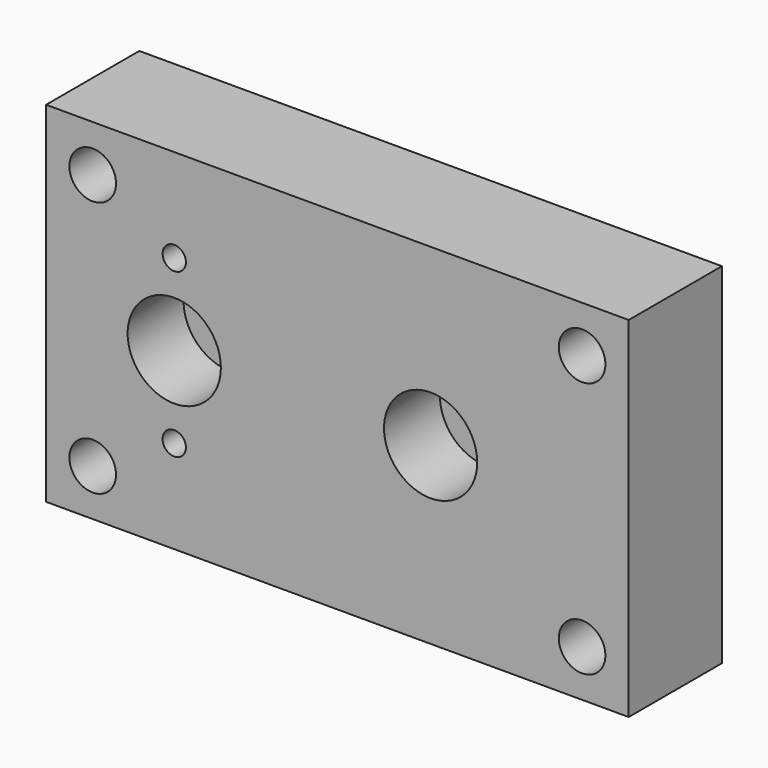
from build123d import *

# Parameters (mm, degrees)
F0_W     = 25
F0_H     = 15
F0_R     = 1
F0_R_2   = 0.5
F1_DEPTH = 5
F2_R     = 2
F2_R_2   = 0.5
F3_DEPTH = 3


with BuildPart() as f1:
    # F0 (on Front) → F1 (new body)
    with BuildSketch(Plane.XZ):
        Rectangle(F0_W, F0_H)
        with Locations((-10.5, -5.5)):
            Circle(F0_R, mode=Mode.SUBTRACT)
        with Locations((-7, -3.5)):
            Circle(F0_R_2, mode=Mode.SUBTRACT)
        with Locations((10.5, -5.5)):
            Circle(F0_R, mode=Mode.SUBTRACT)
        with Locations((-7, 0)):
            Circle(F0_R_2, mode=Mode.SUBTRACT)
        with Locations((-7, 3.5)):
            Circle(F0_R_2, mode=Mode.SUBTRACT)
        with Locations((-10.5, 5.5)):
            Circle(F0_R, mode=Mode.SUBTRACT)
        with BuildLine():
            ThreePointArc((4.5, 0), (4, -0.5), (3.5, 0))
            ThreePointArc((3.5, 0), (4, 0.5), (4.5, 0))
        make_face(mode=Mode.SUBTRACT)
        with Locations((10.5, 5.5)):
            Circle(F0_R, mode=Mode.SUBTRACT)
        Rectangle(F0_W, F0_H)
        with Locations((-10.5, -5.5)):
            Circle(F0_R, mode=Mode.SUBTRACT)
        with Locations((-7, -3.5)):
            Circle(F0_R_2, mode=Mode.SUBTRACT)
        with Locations((10.5, -5.5)):
            Circle(F0_R, mode=Mode.SUBTRACT)
        with Locations((-7, 0)):
            Circle(F0_R_2, mode=Mode.SUBTRACT)
        with Locations((-7, 3.5)):
            Circle(F0_R_2, mode=Mode.SUBTRACT)
        with Locations((-10.5, 5.5)):
            Circle(F0_R, mode=Mode.SUBTRACT)
        with BuildLine():
            ThreePointArc((4.5, 0), (4, -0.5), (3.5, 0))
            ThreePointArc((3.5, 0), (4, 0.5), (4.5, 0))
        make_face(mode=Mode.SUBTRACT)
        with Locations((10.5, 5.5)):
            Circle(F0_R, mode=Mode.SUBTRACT)
        Rectangle(F0_W, F0_H)
        with Locations((-10.5, -5.5)):
            Circle(F0_R, mode=Mode.SUBTRACT)
        with Locations((-7, -3.5)):
            Circle(F0_R_2, mode=Mode.SUBTRACT)
        with Locations((10.5, -5.5)):
            Circle(F0_R, mode=Mode.SUBTRACT)
        with Locations((-7, 0)):
            Circle(F0_R_2, mode=Mode.SUBTRACT)
        with Locations((-7, 3.5)):
            Circle(F0_R_2, mode=Mode.SUBTRACT)
        with Locations((-10.5, 5.5)):
            Circle(F0_R, mode=Mode.SUBTRACT)
        with BuildLine():
            ThreePointArc((4.5, 0), (4, -0.5), (3.5, 0))
            ThreePointArc((3.5, 0), (4, 0.5), (4.5, 0))
        make_face(mode=Mode.SUBTRACT)
        with Locations((10.5, 5.5)):
            Circle(F0_R, mode=Mode.SUBTRACT)
    extrude(amount=F1_DEPTH)

    # F2 (on face) → F3 (cut)
    with BuildSketch(Plane.XZ.offset(5)):
        with Locations((-7, 0)):
            Circle(F2_R)
        with Locations((-7, 0)):
            Circle(F2_R_2, mode=Mode.SUBTRACT)
        with Locations((4, 0)):
            Circle(F2_R)
        with Locations((4, 0)):
            Circle(F2_R_2, mode=Mode.SUBTRACT)
    extrude(amount=-F3_DEPTH, mode=Mode.SUBTRACT)


solid = f1.part
